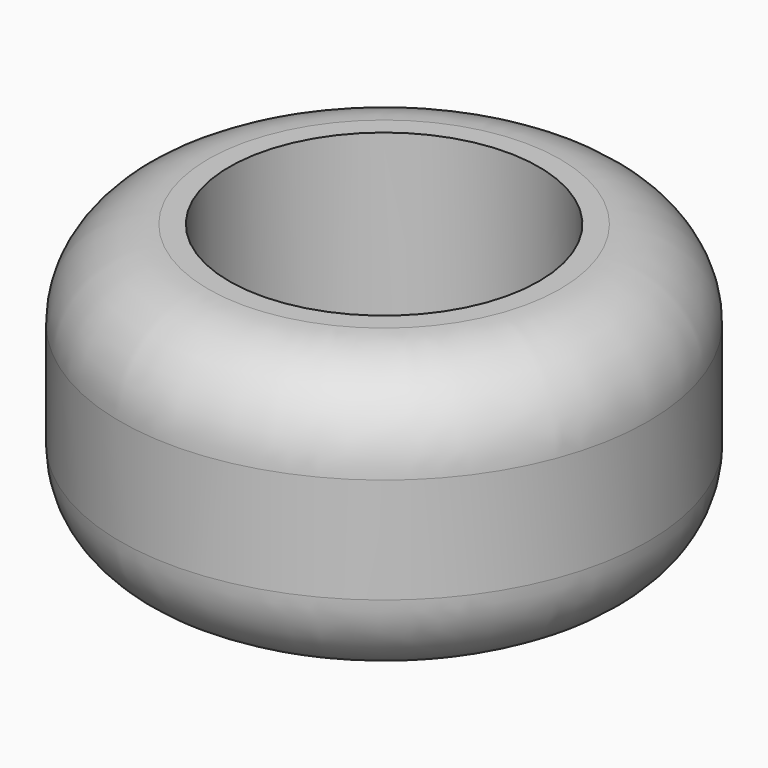
from build123d import *

# Parameters (mm, degrees)
F0_R     = 75
F1_DEPTH = 80
F2_R     = 25
F3_R     = 44
F4_DEPTH = 177.9


with BuildPart() as f1:
    # F0 (on Top) → F1 (new body)
    with BuildSketch(Plane.XY):
        Circle(F0_R)
    extrude(amount=F1_DEPTH)

    # F2
    f2_edges = [f1.edges().sort_by_distance(p)[0] for p in [
        (75, 0, 40),
        (-75, 0, 0),
        (-75, 0, 80),
    ]]
    fillet(f2_edges, radius=F2_R)

    # F3 (on face) → F4 (cut)
    with BuildSketch(Plane.XY.offset(80)):
        Circle(F3_R)
    extrude(amount=-F4_DEPTH, mode=Mode.SUBTRACT)


solid = f1.part
